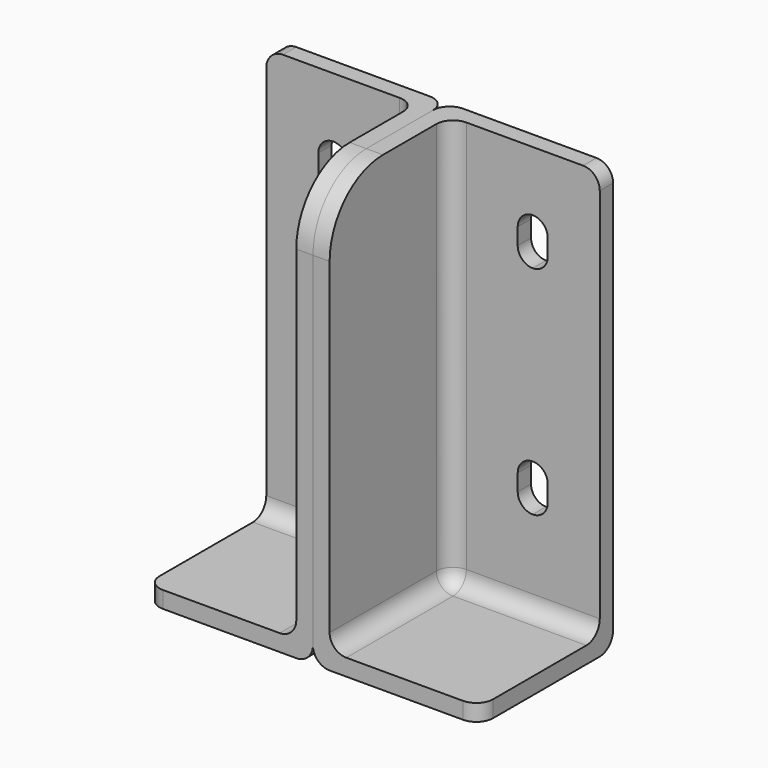
from build123d import *

# Parameters (mm, degrees)
F0_W     = 50
F0_H     = 50
F1_DEPTH = 128
F2_W     = 45
F2_H     = 45
F3_DEPTH = 123
F4_R     = 5
F5_R     = 20
F7_DEPTH = 5.001


with BuildPart() as f1:
    # F0 (on Top) → F1 (new body)
    with BuildSketch(Plane.XY):
        with Locations((25, -25)):
            Rectangle(F0_W, F0_H)
    extrude(amount=F1_DEPTH)

    # F2 (on face) → F3 (cut)
    with BuildSketch(Plane.XY.offset(128)):
        with Locations((27.5, -27.5)):
            Rectangle(F2_W, F2_H)
    extrude(amount=-F3_DEPTH, mode=Mode.SUBTRACT)

    # F4
    f4_edges = [f1.edges().sort_by_distance(p)[0] for p in [
        (5, -5, 66.5),
        (0, 0, 64),
        (25, 0, 0),
        (0, -25, 0),
        (5, -27.5, 5),
        (27.5, -5, 5),
        (50, -2.5, 128),
        (50, -50, 2.5),
    ]]
    fillet(f4_edges, radius=F4_R)

    # F5
    f5_edges = [f1.edges().sort_by_distance(p)[0] for p in [
        (2.5, -50, 128),
    ]]
    fillet(f5_edges, radius=F5_R)

    # F6 (on face) → F7 (cut, through all)
    with BuildSketch(Plane.XZ.offset(5)):
        with BuildLine():
            ThreePointArc((29.9, 110), (26.718019, 108.681981), (25.4, 105.5))
            Line((25.4, 105.5), (25.4, 100.5))
            ThreePointArc((25.4, 100.5), (26.718019, 97.318019), (29.9, 96))
            ThreePointArc((29.9, 96), (33.081981, 97.318019), (34.4, 100.5))
            Line((34.4, 100.5), (34.4, 105.5))
            ThreePointArc((34.4, 105.5), (33.081981, 108.681981), (29.9, 110))
        make_face()
        with BuildLine():
            ThreePointArc((34.4, 40.5), (33.081981, 43.681981), (29.9, 45))
            ThreePointArc((29.9, 45), (26.718019, 43.681981), (25.4, 40.5))
            Line((25.4, 40.5), (25.4, 35.5))
            ThreePointArc((25.4, 35.5), (26.718019, 32.318019), (29.9, 31))
            ThreePointArc((29.9, 31), (33.081981, 32.318019), (34.4, 35.5))
            Line((34.4, 35.5), (34.4, 40.5))
        make_face()
    extrude(amount=-F7_DEPTH, mode=Mode.SUBTRACT)


with BuildPart() as f8_1:
    # F8: instance of F1
    add(f1.part.mirror(Plane.YZ))


solid = Compound([f1.part, f8_1.part])
